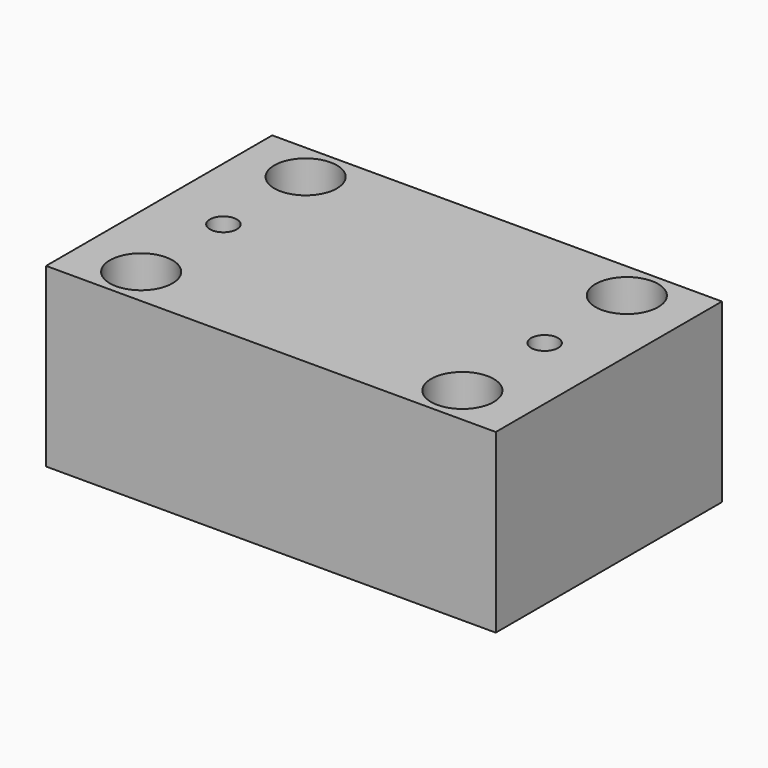
from build123d import *

# Parameters (mm, degrees)
F0_W           = 70
F0_H           = 44
F1_DEPTH       = 27.5
F4_D           = 4.2
F4_DEPTH       = 14.4
F4_TIP         = 1.2618073
F5_D           = 5.5
F5_CBORE_D     = 9.75
F5_CBORE_DEPTH = 12


with BuildPart() as f1:
    # F0 (on Top) → F1 (new body)
    with BuildSketch(Plane.XY):
        Rectangle(F0_W, F0_H)
    extrude(amount=F1_DEPTH)

    # F4
    with Locations(Plane.XY.offset(27.5)):
        with Locations((25, 0), (-25, 0)):
            Hole(F4_D / 2, depth=F4_DEPTH)
            with Locations((0, 0, -(F4_DEPTH + F4_TIP / 2))):  # 118° drill point
                Cone(0, F4_D / 2, F4_TIP, mode=Mode.SUBTRACT)

    # F5 (through all)
    with Locations(Plane.XY.offset(27.5)):
        with Locations((25, -16), (25, 16), (-25, -16), (-25, 16)):
            CounterBoreHole(F5_D / 2, F5_CBORE_D / 2, F5_CBORE_DEPTH)


solid = f1.part
